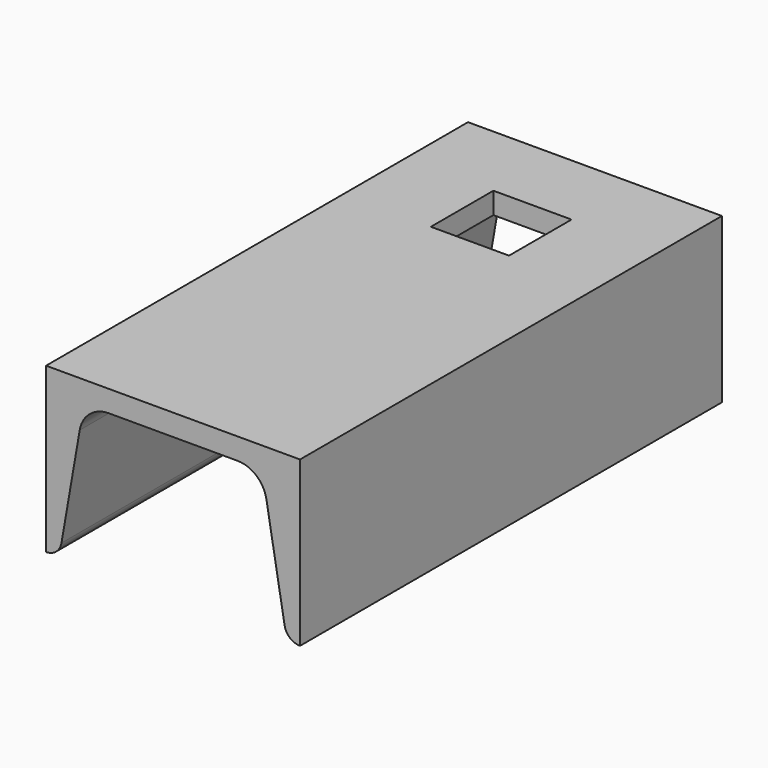
from build123d import *

# Parameters (mm, degrees)
SKETCH003_W      = 20
SKETCH003_H      = 20
EXTRUDE003_DEPTH = 15
EXTRUDE002_DEPTH = 135


with BuildPart() as extrude004:
    # Sketch003 (on Face2 of Extrude002) → Extrude003 (new body, symmetric)
    with BuildSketch(Plane.XY.offset(81)):
        with Locations((0, 188.322305)):
            Rectangle(SKETCH003_W, SKETCH003_H)
    extrude(amount=EXTRUDE003_DEPTH, both=True)


with BuildPart() as u65:
    # Sketch002 (on Face6 of Extrude001) → Extrude002 (new body)
    with BuildSketch(Plane(origin=(0, 83.322305, 0), x_dir=(-1, 0, 0), z_dir=(0, 1, 0))):
        with BuildLine():
            Line((-32.5, 39), (-32.5, 81))
            Line((-32.5, 81), (32.5, 81))
            Line((32.5, 81), (32.5, 39))
            ThreePointArc((28.55865, 42.317536), (29.924137, 39.939783), (32.5, 39))
            Line((23.890032, 69.27962), (28.55865, 42.317536))
            ThreePointArc((23.890032, 69.27962), (21.329744, 73.737907), (16.5, 75.5))
            Line((-16.5, 75.5), (16.5, 75.5))
            ThreePointArc((-16.5, 75.5), (-21.329744, 73.737907), (-23.890032, 69.27962))
            Line((-23.890032, 69.27962), (-28.55865, 42.317536))
            ThreePointArc((-32.5, 39), (-29.924137, 39.939783), (-28.55865, 42.317536))
        make_face()
    extrude(amount=EXTRUDE002_DEPTH)

    # Cut: cut Extrude004
    add(extrude004.part, mode=Mode.SUBTRACT)


solid = u65.part
